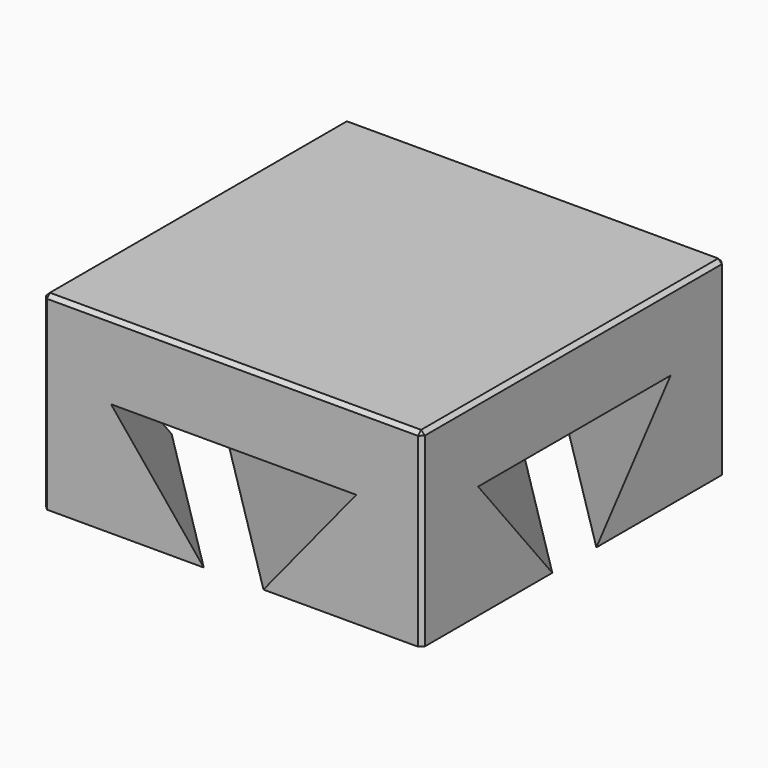
from build123d import *

# Parameters (mm, degrees)
F0_W      = 50
F0_H      = 50
F1_DEPTH  = 25
F4_DEPTH  = 70.7116781187
F5_W      = 50
F5_H      = 50
F6_DEPTH  = 25
F9_SIZE   = 0.5
F11_R     = 2.5
F12_DEPTH = 3


with BuildPart() as f1:
    # F0 (on Top) → F1 (new body)
    with BuildSketch(Plane.XY):
        Rectangle(F0_W, F0_H)
    extrude(amount=F1_DEPTH)

    # F3 (on face) → F4 (cut, through all)
    with BuildSketch(Plane(origin=(25, -25, 0), x_dir=(-0.7071067812, -0.7071067812, 0), z_dir=(-0.7071067812, 0.7071067812, 0))):
        Polygon((35.3553390593, 25), (29.0155930972, 25), (20.3553390593, 10), (35.3553390593, 10), align=None)
        Polygon((-20.3553390593, 10), (-29.0155930972, 25), (-35.3553390593, 25), (-35.3553390593, 10), align=None)
        Polygon((6.1227716358, 25), (0, 25), (-6.5567202885, 25), (-15.2169743263, 10), (14.7830256737, 10), align=None)
    extrude(amount=F4_DEPTH, mode=Mode.SUBTRACT)


with BuildPart() as f6:
    # F5 (on face) → F6 (new body)
    with BuildSketch(Plane.XY.offset(10)):
        Rectangle(F5_W, F5_H)
    extrude(amount=F6_DEPTH)

    # F7: cut F1
    add(f1.part, mode=Mode.SUBTRACT)


with BuildPart() as f6_1:
    # F8: moved
    add(f6.part.moved(Location((-55, 0, 0))))

    # F9
    f9_edges = [f6_1.edges().sort_by_distance(p)[0] for p in [
        (-80, 25, 22.5),
        (-80, -25, 22.5),
        (-30, 25, 22.5),
        (-30, -25, 22.5),
        (-30, 0, 35),
        (-55, 25, 35),
        (-80, 0, 35),
        (-55, -25, 35),
    ]]
    chamfer(f9_edges, length=F9_SIZE)

    # F11 (on face) → F12 (cut)
    with BuildSketch(Plane(origin=(0, 0, 10), x_dir=(1, 0, 0), z_dir=(0, 0, -1))):
        with Locations((-55, 0)):
            Circle(F11_R)
    extrude(amount=-F12_DEPTH, mode=Mode.SUBTRACT)


solid = f6_1.part
